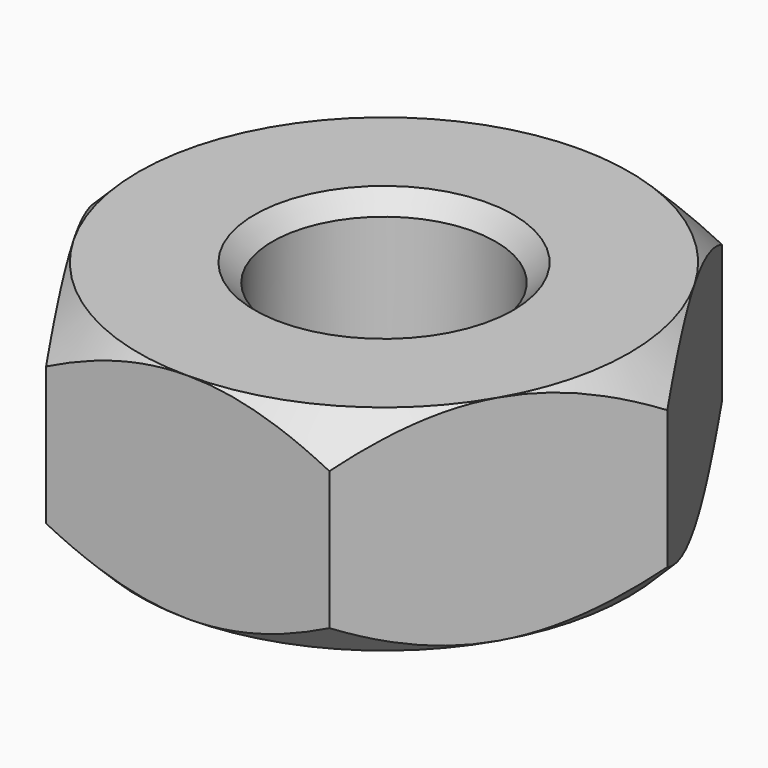
from build123d import *

# Parameters (mm, degrees)
F0_R     = 1.25
F1_DEPTH = 2.4
F2_SIZE  = 0.2


with BuildPart() as f1:
    # F0 (on Top) → F1 (new body)
    with BuildSketch(Plane.XY):
        Polygon((1.587713, 2.75), (-1.587713, 2.75), (-3.175426, 0), (-1.587713, -2.75), (1.587713, -2.75), (3.175426, 0), align=None)
        Circle(F0_R, mode=Mode.SUBTRACT)
    extrude(amount=F1_DEPTH)

    # F2
    f2_edges = [f1.edges().sort_by_distance(p)[0] for p in [
        (-1.25, 0, 2.4),
        (-1.25, 0, 0),
    ]]
    chamfer(f2_edges, length=F2_SIZE)

    # F3 (on Front) → F4 (revolve, cut)
    with BuildSketch(Plane.XZ):
        Polygon((3.375426, 0.625426), (2.75, 0), (3.738599, 0), (3.738599, 2.737111), (2.75, 2.737111), (2.75, 2.4), (3.375426, 1.774574), align=None)
    revolve(axis=Axis((0, 0, 1.849946), (0, 0, 1)), mode=Mode.SUBTRACT)


solid = f1.part
